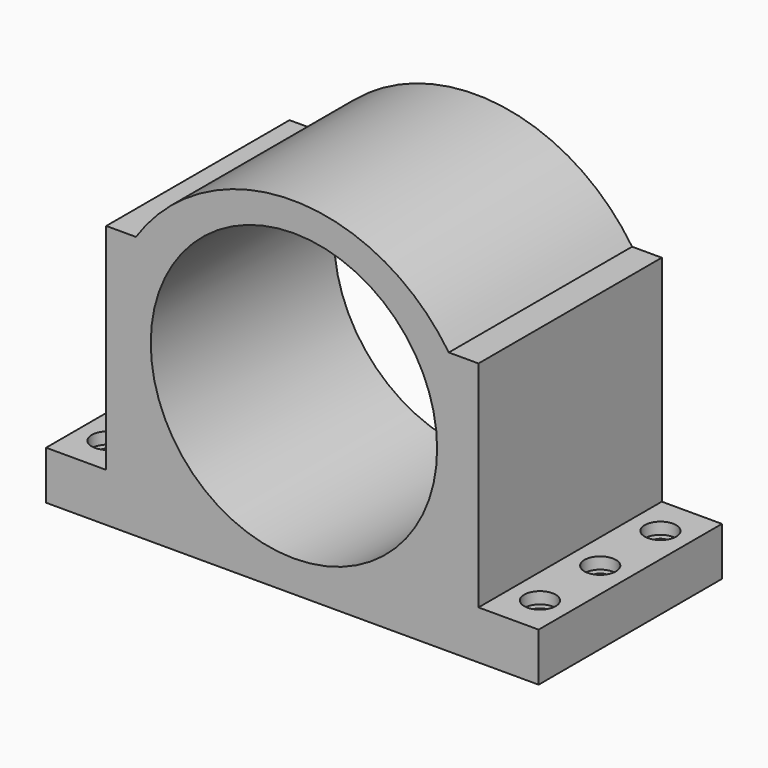
from build123d import *

# Parameters (mm, degrees)
F0_R     = 49.9999
F1_DEPTH = 79.99984
F2_R     = 3.175
F3_DEPTH = 120.99898
F4_DEPTH = 120.99898
F5_R     = 5.48005
F6_DEPTH = 4.064
F7_R     = 5.4864
F8_DEPTH = 4.064


with BuildPart() as f1:
    # F0 (on Front) → F1 (new body)
    with BuildSketch(Plane.XZ):
        with BuildLine():
            Line((-85.99932, -68.295799), (0, -68.295799))
            Line((0, -68.295799), (85.99932, -68.295799))
            Line((85.99932, -68.295799), (85.99932, -51.370141))
            Line((85.99932, -51.370141), (64.99987, -51.370141))
            Line((64.99987, -51.370141), (64.99987, 23.628439))
            Line((64.99987, 23.628439), (54.628692, 23.628439))
            ThreePointArc((54.628692, 23.628439), (0, 52.702181), (-54.628692, 23.628439))
            Line((-54.628692, 23.628439), (-64.99987, 23.628439))
            Line((-64.99987, 23.628439), (-64.99987, -51.370141))
            Line((-64.99987, -51.370141), (-85.99932, -51.370141))
            Line((-85.99932, -51.370141), (-85.99932, -68.295799))
        make_face()
        with Locations((0.550864, -7.294665)):
            Circle(F0_R, mode=Mode.SUBTRACT)
    extrude(amount=F1_DEPTH)

    # F2 (on face) → F3 (cut, through all)
    with BuildSketch(Plane(origin=(0, 0, -68.295799), x_dir=(1, 0, 0), z_dir=(0, 0, -1))):
        with Locations((-75.49896, 66.29781)):
            Circle(F2_R)
        with Locations((-75.49896, 39.99992)):
            Circle(F2_R)
        with Locations((-75.49896, 13.70203)):
            Circle(F2_R)
        with Locations((75.49896, 66.29781)):
            Circle(F2_R)
        with Locations((75.49896, 39.99992)):
            Circle(F2_R)
        with Locations((75.49896, 13.70203)):
            Circle(F2_R)
    extrude(amount=-F3_DEPTH, mode=Mode.SUBTRACT)

    # F2 (on face) → F4 (cut, through all)
    with BuildSketch(Plane(origin=(0, 0, -68.295799), x_dir=(1, 0, 0), z_dir=(0, 0, -1))):
        with Locations((-75.49896, 66.29781)):
            Circle(F2_R)
        with Locations((-75.49896, 39.99992)):
            Circle(F2_R)
        with Locations((-75.49896, 13.70203)):
            Circle(F2_R)
        with Locations((75.49896, 66.29781)):
            Circle(F2_R)
        with Locations((75.49896, 39.99992)):
            Circle(F2_R)
        with Locations((75.49896, 13.70203)):
            Circle(F2_R)
    extrude(amount=-F4_DEPTH, mode=Mode.SUBTRACT)

    # F5 (on face) → F6 (cut)
    with BuildSketch(Plane.XY.offset(-51.370141)):
        with Locations((75.49896, -13.70203)):
            Circle(F5_R)
        with Locations((75.49896, -39.99992)):
            Circle(F5_R)
        with Locations((75.49896, -66.29781)):
            Circle(F5_R)
    extrude(amount=-F6_DEPTH, mode=Mode.SUBTRACT)

    # F7 (on face) → F8 (cut)
    with BuildSketch(Plane.XY.offset(-51.370141)):
        with Locations((-75.49896, -13.70203)):
            Circle(F7_R)
        with Locations((-75.49896, -39.99992)):
            Circle(F7_R)
        with Locations((-75.49896, -66.29781)):
            Circle(F7_R)
    extrude(amount=-F8_DEPTH, mode=Mode.SUBTRACT)


solid = f1.part
